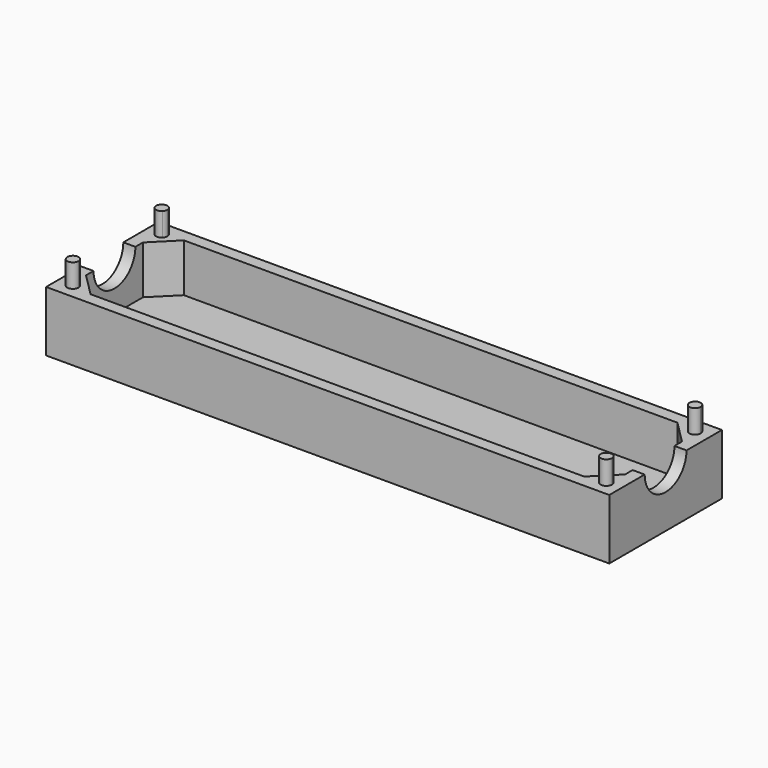
from build123d import *

# Parameters (mm, degrees)
F0_W     = 70
F0_H     = 17.5
F1_DEPTH = 7.5
F2_T     = -1.5
F4_DEPTH = 6
F6_DEPTH = 2.9
F7_R     = 3.25
F8_DEPTH = 70.001


with BuildPart() as f1:
    # F0 (on Top) → F1 (new body)
    with BuildSketch(Plane.XY):
        Rectangle(F0_W, F0_H)
    extrude(amount=F1_DEPTH)

    # F2
    f2_openings = [f1.faces().sort_by_distance(p)[0] for p in [
        (0, 0, 7.5),
    ]]
    offset(amount=F2_T, openings=f2_openings)

    # F3 (on face) → F4 (join, through all)
    with BuildSketch(Plane.XY.offset(1.5)):
        Polygon((-33.5, 7.25), (-33.5, 4.421573), (-30.671573, 7.25), align=None)
        Polygon((30.671573, 7.25), (33.5, 4.421573), (33.5, 7.25), align=None)
        Polygon((33.5, -7.25), (33.5, -4.421573), (30.671573, -7.25), align=None)
        Polygon((-33.5, -4.421573), (-33.5, -7.25), (-30.671573, -7.25), align=None)
    extrude(amount=F4_DEPTH)

    # F5 (on face) → F6 (join)
    with BuildSketch(Plane.XY.offset(7.5)):
        with BuildLine():
            ThreePointArc((-32.651472, 6.401472), (-32.499731, 6.628568), (-32.446447, 6.896447))
            ThreePointArc((-32.446447, 6.896447), (-33.793162, 7.164325), (-32.651472, 6.401472))
        make_face()
        with BuildLine():
            ThreePointArc((-32.651472, -6.401472), (-33.793162, -7.164325), (-32.446447, -6.896447))
            ThreePointArc((-32.446447, -6.896447), (-32.499731, -6.628568), (-32.651472, -6.401472))
        make_face()
        with BuildLine():
            ThreePointArc((32.651472, 6.401472), (33.414325, 6.249731), (33.846447, 6.896447))
            ThreePointArc((33.846447, 6.896447), (32.878568, 7.543162), (32.651472, 6.401472))
        make_face()
        with BuildLine():
            ThreePointArc((32.651472, -6.401472), (32.878568, -7.543162), (33.846447, -6.896447))
            ThreePointArc((33.846447, -6.896447), (33.414325, -6.249731), (32.651472, -6.401472))
        make_face()
    extrude(amount=F6_DEPTH)

    # F7 (on face) → F8 (cut, through all)
    with BuildSketch(Plane.YZ.offset(35)):
        with Locations((0, 7.5)):
            Circle(F7_R)
    extrude(amount=-F8_DEPTH, mode=Mode.SUBTRACT)


solid = f1.part
